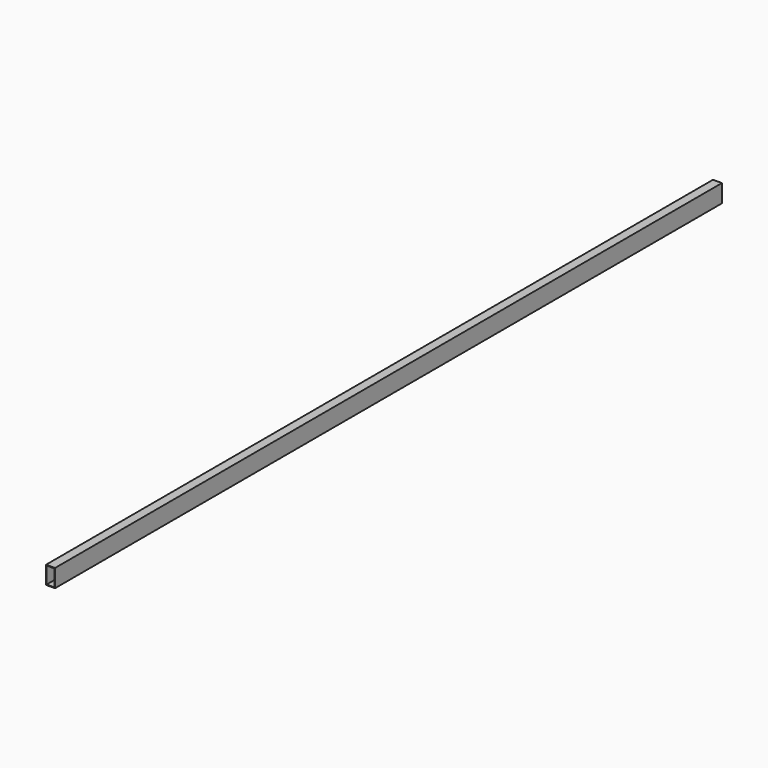
from build123d import *

# Parameters (mm, degrees)
F1_DEPTH = 1400


with BuildPart() as f1:
    # F0 (on Front) → F1 (new body, symmetric)
    with BuildSketch(Plane.XZ):
        Polygon((-15, 30), (-15, 0), (-15, -30), (15, -30), (15, 30), align=None)
        Polygon((-13, 0), (-13, 28), (13, 28), (13, -28), (-13, -28), align=None, mode=Mode.SUBTRACT)
    extrude(amount=F1_DEPTH, both=True)


solid = f1.part
